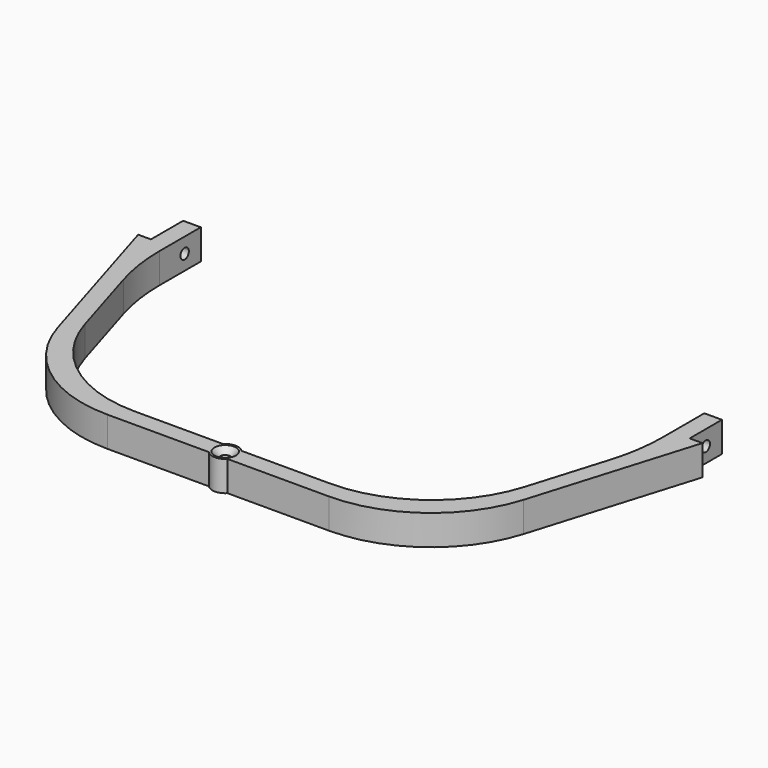
from build123d import *

# Parameters (mm, degrees)
F0_R     = 2
F1_DEPTH = 12
F2_SIZE  = 2.286
F3_SIZE  = 2.286
F4_R     = 2.08915
F5_DEPTH = 219.3935


with BuildPart() as f1:
    # F0 (on Top) → F1 (new body)
    with BuildSketch(Plane.XY):
        with BuildLine():
            Line((12.08, 118.11), (5.08, 118.11))
            Line((5.08, 118.11), (5.08, 102.074511))
            Line((5.08, 102.074511), (0, 102.074511))
            Line((0, 102.074511), (19.539499, 37.638369))
            ThreePointArc((19.539499, 37.638369), (37.889981, 11.578561), (68.153533, 1.58))
            Line((68.153533, 1.58), (108.554348, 1.58))
            ThreePointArc((108.554348, 1.58), (107.15625, 5.08), (108.554348, 8.58))
            Line((108.554348, 8.58), (73.345626, 8.58))
            ThreePointArc((73.345626, 8.58), (43.082074, 18.578561), (24.731592, 44.638369))
            Line((24.731592, 44.638369), (15.358949, 75.546886))
            ThreePointArc((15.358949, 75.546886), (12.904195, 86.482216), (12.08, 97.659333))
            Line((12.08, 97.659333), (12.08, 118.11))
        make_face()
        with BuildLine():
            ThreePointArc((108.554348, 8.58), (107.15625, 5.08), (108.554348, 1.58))
            ThreePointArc((108.554348, 1.58), (112.23625, 0), (115.918152, 1.58))
            ThreePointArc((115.918152, 1.58), (116.953795, 3.195545), (117.31625, 5.08))
            ThreePointArc((117.31625, 5.08), (116.953795, 6.964455), (115.918152, 8.58))
            ThreePointArc((115.918152, 8.58), (112.23625, 10.16), (108.554348, 8.58))
        make_face()
        with Locations((112.23625, 5.08)):
            Circle(F0_R, mode=Mode.SUBTRACT)
        with BuildLine():
            ThreePointArc((117.31625, 5.08), (116.953795, 3.195545), (115.918152, 1.58))
            Line((115.918152, 1.58), (156.318967, 1.58))
            ThreePointArc((156.318967, 1.58), (186.582519, 11.578561), (204.933001, 37.638369))
            Line((204.933001, 37.638369), (224.4725, 102.074511))
            Line((224.4725, 102.074511), (219.3925, 102.074511))
            Line((219.3925, 102.074511), (219.3925, 118.11))
            Line((219.3925, 118.11), (212.3925, 118.11))
            Line((212.3925, 118.11), (212.3925, 97.659333))
            ThreePointArc((212.3925, 97.659333), (211.568305, 86.482216), (209.113551, 75.546886))
            Line((209.113551, 75.546886), (199.740908, 44.638369))
            ThreePointArc((199.740908, 44.638369), (181.390426, 18.578561), (151.126874, 8.58))
            Line((151.126874, 8.58), (115.918152, 8.58))
            ThreePointArc((115.918152, 8.58), (116.953795, 6.964455), (117.31625, 5.08))
        make_face()
    extrude(amount=-F1_DEPTH)

    # F2
    f2_edges = [f1.edges().sort_by_distance(p)[0] for p in [
        (110.23625, 5.08, 0),
    ]]
    chamfer(f2_edges, length=F2_SIZE)

    # F3
    f3_edges = [f1.edges().sort_by_distance(p)[0] for p in [
        (110.23625, 5.08, -12),
    ]]
    chamfer(f3_edges, length=F3_SIZE)

    # F4 (on face) → F5 (cut, through all)
    with BuildSketch(Plane(origin=(5.08, 0, 0), x_dir=(0, -1, 0), z_dir=(-1, 0, 0))):
        with Locations((-110.092256, -6)):
            Circle(F4_R)
    extrude(amount=-F5_DEPTH, mode=Mode.SUBTRACT)


solid = f1.part
